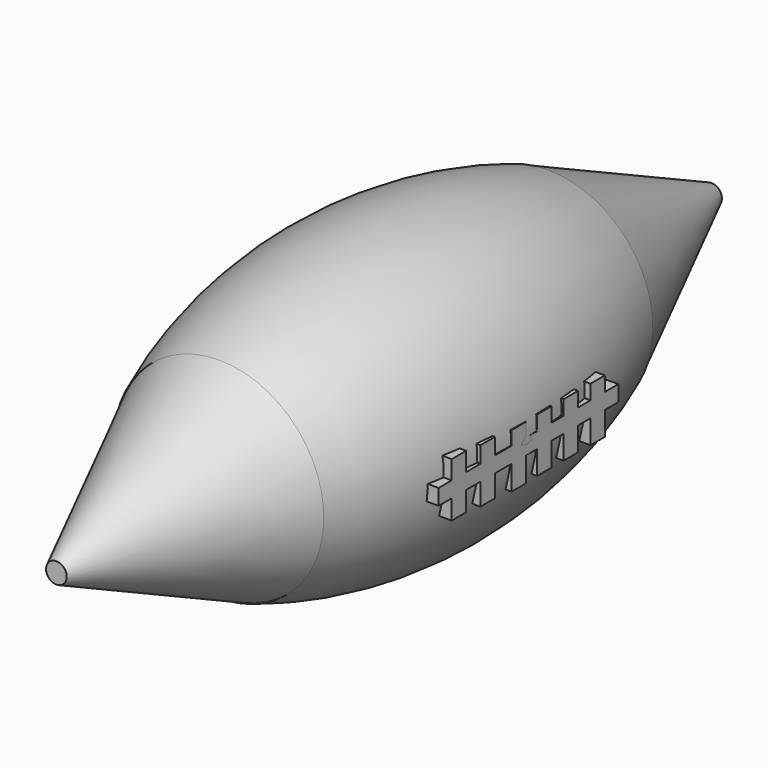
from build123d import *

# Parameters (mm, degrees)
F0_R      = 12.9921
F1_DEPTH  = 25.4
F3_R      = 1.28162
F1_FACE_R = 12.9921
F9_W      = 2.238606
F9_H      = 2.947048
F10_DEPTH = 17.78


with BuildPart() as f1:
    # F0 (on Front) → F1 (new body)
    with BuildSketch(Plane.XZ):
        Circle(F0_R)
    extrude(amount=F1_DEPTH)

    # F3 (on offset) → F4 section 0
    with BuildSketch(Plane(origin=(0, 25.4, 0), x_dir=(1, 0, 0), z_dir=(0, 1, 0))):
        Circle(F3_R)
    # F1_face (on face) → F4 section 1
    with BuildSketch(Plane(origin=(0, 0, 0), x_dir=(1, 0, 0), z_dir=(0, 1, 0))):
        Circle(F1_FACE_R)
    loft()

    # F6: F1 across plane


with BuildPart() as f1_1:
    add(f1.part)
    add(f1.part.mirror(Plane.XZ.offset(25.4)))


with BuildPart() as f8:
    # F7 (on Right) → F8 (revolve)
    with BuildSketch(Plane.YZ):
        with BuildLine():
            Line((-50.980702, 12.997729), (0, 13.044823))
            ThreePointArc((0, 13.044823), (-25.49478, 17.81584), (-50.980702, 12.997729))
        make_face()
    revolve(axis=Axis((0, 0, 0), (0, 1, 0)))


with BuildPart() as f10:
    # F9 (on Right) → F10 (new body)
    with BuildSketch(Plane.YZ):
        Polygon((-37.118651, 0), (-39.153744, 0), (-39.153744, -1.956454), (-37.118651, -1.956454), (-37.118651, -4.398567), (-34.880046, -4.398567), (-34.880046, -1.956454), (-32.664832, -1.956454), (-32.664832, -4.687884), (-30.426227, -4.687884), (-30.426227, -1.956454), (-27.835427, -1.956454), (-27.835427, -5.00524), (-25.596821, -5.00524), (-25.596821, -1.956454), (-23.883699, -1.956454), (-21.645093, -1.956454), (-19.776867, -1.956454), (-19.776867, -4.903491), (-17.538262, -4.903491), (-17.538262, -1.956454), (-15.609282, -1.956454), (-15.609282, -4.90348), (-13.370677, -4.90348), (-13.370677, -1.956454), (-11.272956, -1.956454), (-11.272956, 0), (-13.370677, 0), (-13.370677, 1.812331), (-15.609282, 1.812331), (-15.609282, 0), (-17.538262, 0), (-17.538262, 1.812319), (-19.776867, 1.812319), (-19.776867, 0), (-21.645093, 0), (-21.645093, 1.812308), (-23.883699, 1.812308), (-23.883699, 0), (-25.596821, 0), (-25.596821, 1.710571), (-27.835427, 1.710571), (-27.835427, 0), (-30.426227, 0), (-30.426227, 2.027926), (-32.664832, 2.027926), (-32.664832, 0), (-34.880046, 0), (-34.880046, 2.317243), (-37.118651, 2.317243), align=None)
        with Locations((-22.764396, -3.429978)):
            Rectangle(F9_W, F9_H)
    extrude(amount=F10_DEPTH)


solid = Compound([f1_1.part, f8.part, f10.part])
